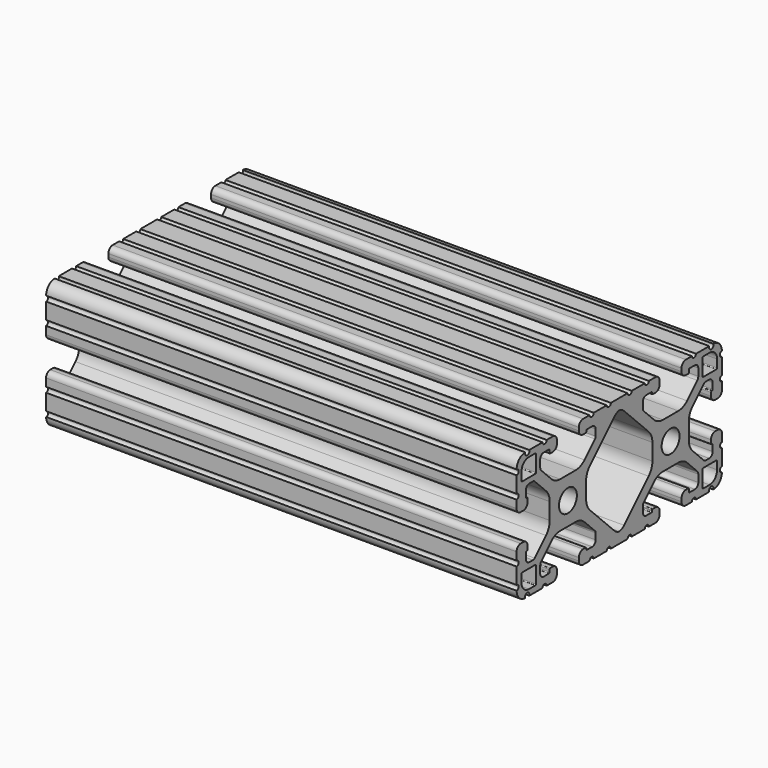
from build123d import *

# Parameters (mm, degrees)
F0_R     = 3.3274
F1_DEPTH = 69.85


with BuildPart() as f1:
    # F0 (on Right) → F1 (new body, symmetric)
    with BuildSketch(Plane.YZ):
        with BuildLine():
            Line((3.377494, 19.049045), (-2.870183, 19.049045))
            ThreePointArc((-2.870183, 19.049045), (-3.632183, 18.287045), (-4.394183, 19.049045))
            Line((-4.394183, 19.049045), (-9.220647, 19.049045))
            ThreePointArc((-9.220647, 19.049045), (-9.982647, 18.287045), (-10.744647, 19.049045))
            Line((-10.744647, 19.049045), (-13.157545, 19.049045))
            ThreePointArc((-13.157545, 19.049045), (-14.271096, 18.587797), (-14.732345, 17.474245))
            Line((-14.732345, 17.474245), (-14.732345, 16.559845))
            ThreePointArc((-14.732345, 16.559845), (-14.271096, 15.446293), (-13.157545, 14.985045))
            Line((-13.157545, 14.985045), (-12.217239, 14.985045))
            ThreePointArc((-12.217239, 14.985045), (-12.037634, 15.05944), (-11.963239, 15.239045))
            Line((-11.963239, 15.239045), (-11.963239, 15.497368))
            ThreePointArc((-11.963239, 15.497368), (-11.888844, 15.676973), (-11.709239, 15.751368))
            Line((-11.709239, 15.751368), (-9.779355, 15.751368))
            ThreePointArc((-9.779355, 15.751368), (-8.881322, 15.37939), (-8.509345, 14.481358))
            Line((-8.509345, 14.481358), (-8.509345, 12.633115))
            ThreePointArc((-8.509345, 12.633115), (-8.577016, 12.292919), (-8.769729, 12.004519))
            Line((-8.769729, 12.004519), (-12.651183, 8.123309))
            ThreePointArc((-12.651183, 8.123309), (-14.166377, 7.11094), (-15.953644, 6.755445))
            Line((-15.953644, 6.755445), (-21.686387, 6.755445))
            ThreePointArc((-21.686387, 6.755445), (-23.429916, 7.10224), (-24.908029, 8.089833))
            Line((-24.908029, 8.089833), (-28.70892, 11.890486))
            ThreePointArc((-28.70892, 11.890486), (-28.986034, 12.305196), (-29.083345, 12.794387))
            Line((-29.083345, 12.794387), (-29.083345, 14.948568))
            ThreePointArc((-29.083345, 14.948568), (-28.711367, 15.8466), (-27.813335, 16.218578))
            Line((-27.813335, 16.218578), (-25.88345, 16.218578))
            ThreePointArc((-25.88345, 16.218578), (-25.703845, 16.144183), (-25.62945, 15.964578))
            Line((-25.62945, 15.964578), (-25.62945, 15.239045))
            ThreePointArc((-25.62945, 15.239045), (-25.555055, 15.05944), (-25.37545, 14.985045))
            Line((-25.37545, 14.985045), (-24.435145, 14.985045))
            ThreePointArc((-24.435145, 14.985045), (-23.321593, 15.446293), (-22.860345, 16.559845))
            Line((-22.860345, 16.559845), (-22.860345, 17.450303))
            ThreePointArc((-22.860345, 17.450303), (-23.328605, 18.580784), (-24.459087, 19.049045))
            Line((-24.459087, 19.049045), (-26.6929, 19.049045))
            ThreePointArc((-26.6929, 19.049045), (-27.4549, 18.287045), (-28.2169, 19.049045))
            Line((-28.2169, 19.049045), (-33.146998, 19.049045))
            ThreePointArc((-33.146998, 19.049045), (-33.893051, 17.918668), (-34.639103, 19.049045))
            ThreePointArc((-34.639103, 19.049045), (-36.899911, 18.114882), (-37.822058, 15.849147))
            ThreePointArc((-37.822058, 15.849147), (-37.071515, 15.074268), (-37.846345, 14.323673))
            Line((-37.846345, 14.323673), (-37.846345, 9.495259))
            ThreePointArc((-37.846345, 9.495259), (-37.084345, 8.733259), (-37.846345, 7.971259))
            Line((-37.846345, 7.971259), (-37.846345, 5.64415))
            ThreePointArc((-37.846345, 5.64415), (-37.397376, 4.560244), (-36.31347, 4.111275))
            Line((-36.31347, 4.111275), (-35.357145, 4.111275))
            ThreePointArc((-35.357145, 4.111275), (-34.243593, 4.572524), (-33.782345, 5.686075))
            Line((-33.782345, 5.686075), (-33.782345, 6.704102))
            ThreePointArc((-33.782345, 6.704102), (-33.856739, 6.883708), (-34.036345, 6.958102))
            Line((-34.036345, 6.958102), (-34.13961, 6.958102))
            ThreePointArc((-34.13961, 6.958102), (-34.319215, 7.032497), (-34.39361, 7.212102))
            Line((-34.39361, 7.212102), (-34.39361, 9.026869))
            ThreePointArc((-34.39361, 9.026869), (-34.023362, 9.920725), (-33.129505, 10.290973))
            Line((-33.129505, 10.290973), (-31.779835, 10.290973))
            ThreePointArc((-31.779835, 10.290973), (-31.447356, 10.224841), (-31.16549, 10.036514))
            Line((-31.16549, 10.036514), (-26.944034, 5.815324))
            ThreePointArc((-26.944034, 5.815324), (-25.91433, 4.274341), (-25.552745, 2.456602))
            Line((-25.552745, 2.456602), (-25.552745, -2.458512))
            ThreePointArc((-25.552745, -2.458512), (-25.91433, -4.276251), (-26.944034, -5.817233))
            Line((-26.944034, -5.817233), (-31.16549, -10.038424))
            ThreePointArc((-31.16549, -10.038424), (-31.447356, -10.226751), (-31.779835, -10.292883))
            Line((-31.779835, -10.292883), (-33.129505, -10.292883))
            ThreePointArc((-33.129505, -10.292883), (-34.023362, -9.922635), (-34.39361, -9.028778))
            Line((-34.39361, -9.028778), (-34.39361, -7.214012))
            ThreePointArc((-34.39361, -7.214012), (-34.319215, -7.034407), (-34.13961, -6.960012))
            Line((-34.13961, -6.960012), (-34.036345, -6.960012))
            ThreePointArc((-34.036345, -6.960012), (-33.856739, -6.885617), (-33.782345, -6.706012))
            Line((-33.782345, -6.706012), (-33.782345, -5.687985))
            ThreePointArc((-33.782345, -5.687985), (-34.243593, -4.574433), (-35.357145, -4.113185))
            Line((-35.357145, -4.113185), (-36.31347, -4.113185))
            ThreePointArc((-36.31347, -4.113185), (-37.397376, -4.562154), (-37.846345, -5.64606))
            Line((-37.846345, -5.64606), (-37.846345, -7.973168))
            ThreePointArc((-37.846345, -7.973168), (-37.084345, -8.735168), (-37.846345, -9.497168))
            Line((-37.846345, -9.497168), (-37.846345, -14.325583))
            ThreePointArc((-37.846345, -14.325583), (-37.071515, -15.076178), (-37.822058, -15.851057))
            ThreePointArc((-37.822058, -15.851057), (-36.899911, -18.116792), (-34.639103, -19.050955))
            ThreePointArc((-34.639103, -19.050955), (-33.893051, -17.920577), (-33.146998, -19.050955))
            Line((-33.146998, -19.050955), (-28.2169, -19.050955))
            ThreePointArc((-28.2169, -19.050955), (-27.4549, -18.288955), (-26.6929, -19.050955))
            Line((-26.6929, -19.050955), (-24.459087, -19.050955))
            ThreePointArc((-24.459087, -19.050955), (-23.328605, -18.582694), (-22.860345, -17.452212))
            Line((-22.860345, -17.452212), (-22.860345, -16.561755))
            ThreePointArc((-22.860345, -16.561755), (-23.321593, -15.448203), (-24.435145, -14.986955))
            Line((-24.435145, -14.986955), (-25.37545, -14.986955))
            ThreePointArc((-25.37545, -14.986955), (-25.555055, -15.06135), (-25.62945, -15.240955))
            Line((-25.62945, -15.240955), (-25.62945, -15.966487))
            ThreePointArc((-25.62945, -15.966487), (-25.703845, -16.146093), (-25.88345, -16.220487))
            Line((-25.88345, -16.220487), (-27.813335, -16.220487))
            ThreePointArc((-27.813335, -16.220487), (-28.711367, -15.84851), (-29.083345, -14.950477))
            Line((-29.083345, -14.950477), (-29.083345, -12.796297))
            ThreePointArc((-29.083345, -12.796297), (-28.986034, -12.307106), (-28.70892, -11.892396))
            Line((-28.70892, -11.892396), (-24.908029, -8.091743))
            ThreePointArc((-24.908029, -8.091743), (-23.429916, -7.10415), (-21.686387, -6.757355))
            Line((-21.686387, -6.757355), (-15.953644, -6.757355))
            ThreePointArc((-15.953644, -6.757355), (-14.166377, -7.11285), (-12.651183, -8.125218))
            Line((-12.651183, -8.125218), (-8.769729, -12.006429))
            ThreePointArc((-8.769729, -12.006429), (-8.577016, -12.294829), (-8.509345, -12.635025))
            Line((-8.509345, -12.635025), (-8.509345, -14.483268))
            ThreePointArc((-8.509345, -14.483268), (-8.881322, -15.3813), (-9.779355, -15.753278))
            Line((-9.779355, -15.753278), (-11.709239, -15.753278))
            ThreePointArc((-11.709239, -15.753278), (-11.888844, -15.678883), (-11.963239, -15.499278))
            Line((-11.963239, -15.499278), (-11.963239, -15.240955))
            ThreePointArc((-11.963239, -15.240955), (-12.037634, -15.06135), (-12.217239, -14.986955))
            Line((-12.217239, -14.986955), (-13.157545, -14.986955))
            ThreePointArc((-13.157545, -14.986955), (-14.271096, -15.448203), (-14.732345, -16.561755))
            Line((-14.732345, -16.561755), (-14.732345, -17.476155))
            ThreePointArc((-14.732345, -17.476155), (-14.271096, -18.589707), (-13.157545, -19.050955))
            Line((-13.157545, -19.050955), (-10.744647, -19.050955))
            ThreePointArc((-10.744647, -19.050955), (-9.982647, -18.288955), (-9.220647, -19.050955))
            Line((-9.220647, -19.050955), (-4.394183, -19.050955))
            ThreePointArc((-4.394183, -19.050955), (-3.632183, -18.288955), (-2.870183, -19.050955))
            Line((-2.870183, -19.050955), (3.377494, -19.050955))
            ThreePointArc((3.377494, -19.050955), (4.139494, -18.288955), (4.901494, -19.050955))
            Line((4.901494, -19.050955), (9.727958, -19.050955))
            ThreePointArc((9.727958, -19.050955), (10.489958, -18.288955), (11.251958, -19.050955))
            Line((11.251958, -19.050955), (13.664855, -19.050955))
            ThreePointArc((13.664855, -19.050955), (14.778407, -18.589707), (15.239655, -17.476155))
            Line((15.239655, -17.476155), (15.239655, -16.561755))
            ThreePointArc((15.239655, -16.561755), (14.778407, -15.448203), (13.664855, -14.986955))
            Line((13.664855, -14.986955), (12.72455, -14.986955))
            ThreePointArc((12.72455, -14.986955), (12.544945, -15.06135), (12.47055, -15.240955))
            Line((12.47055, -15.240955), (12.47055, -15.499278))
            ThreePointArc((12.47055, -15.499278), (12.396155, -15.678883), (12.21655, -15.753278))
            Line((12.21655, -15.753278), (10.286665, -15.753278))
            ThreePointArc((10.286665, -15.753278), (9.388633, -15.3813), (9.016655, -14.483268))
            Line((9.016655, -14.483268), (9.016655, -12.635025))
            ThreePointArc((9.016655, -12.635025), (9.084327, -12.294829), (9.27704, -12.006429))
            Line((9.27704, -12.006429), (13.158494, -8.125218))
            ThreePointArc((13.158494, -8.125218), (14.673688, -7.11285), (16.460955, -6.757355))
            Line((16.460955, -6.757355), (22.193698, -6.757355))
            ThreePointArc((22.193698, -6.757355), (23.937227, -7.10415), (25.41534, -8.091743))
            Line((25.41534, -8.091743), (29.216231, -11.892396))
            ThreePointArc((29.216231, -11.892396), (29.493345, -12.307106), (29.590655, -12.796297))
            Line((29.590655, -12.796297), (29.590655, -14.950477))
            ThreePointArc((29.590655, -14.950477), (29.218678, -15.84851), (28.320645, -16.220487))
            Line((28.320645, -16.220487), (26.390761, -16.220487))
            ThreePointArc((26.390761, -16.220487), (26.211156, -16.146093), (26.136761, -15.966487))
            Line((26.136761, -15.966487), (26.136761, -15.240955))
            ThreePointArc((26.136761, -15.240955), (26.062366, -15.06135), (25.882761, -14.986955))
            Line((25.882761, -14.986955), (24.942455, -14.986955))
            ThreePointArc((24.942455, -14.986955), (23.828904, -15.448203), (23.367655, -16.561755))
            Line((23.367655, -16.561755), (23.367655, -17.452212))
            ThreePointArc((23.367655, -17.452212), (23.835916, -18.582694), (24.966398, -19.050955))
            Line((24.966398, -19.050955), (27.200211, -19.050955))
            ThreePointArc((27.200211, -19.050955), (27.962211, -18.288955), (28.724211, -19.050955))
            Line((28.724211, -19.050955), (33.654309, -19.050955))
            ThreePointArc((33.654309, -19.050955), (34.400361, -17.920577), (35.146414, -19.050955))
            ThreePointArc((35.146414, -19.050955), (37.407222, -18.116792), (38.329369, -15.851057))
            ThreePointArc((38.329369, -15.851057), (37.578826, -15.076178), (38.353655, -14.325583))
            Line((38.353655, -14.325583), (38.353655, -9.497168))
            ThreePointArc((38.353655, -9.497168), (37.591655, -8.735168), (38.353655, -7.973168))
            Line((38.353655, -7.973168), (38.353655, -5.64606))
            ThreePointArc((38.353655, -5.64606), (37.904687, -4.562154), (36.820781, -4.113185))
            Line((36.820781, -4.113185), (35.864455, -4.113185))
            ThreePointArc((35.864455, -4.113185), (34.750904, -4.574433), (34.289655, -5.687985))
            Line((34.289655, -5.687985), (34.289655, -6.706012))
            ThreePointArc((34.289655, -6.706012), (34.36405, -6.885617), (34.543655, -6.960012))
            Line((34.543655, -6.960012), (34.64692, -6.960012))
            ThreePointArc((34.64692, -6.960012), (34.826526, -7.034407), (34.90092, -7.214012))
            Line((34.90092, -7.214012), (34.90092, -9.028778))
            ThreePointArc((34.90092, -9.028778), (34.530673, -9.922635), (33.636816, -10.292883))
            Line((33.636816, -10.292883), (32.287146, -10.292883))
            ThreePointArc((32.287146, -10.292883), (31.954667, -10.226751), (31.672801, -10.038424))
            Line((31.672801, -10.038424), (27.451345, -5.817233))
            ThreePointArc((27.451345, -5.817233), (26.421641, -4.276251), (26.060055, -2.458512))
            Line((26.060055, -2.458512), (26.060055, 2.456602))
            ThreePointArc((26.060055, 2.456602), (26.421641, 4.274341), (27.451345, 5.815324))
            Line((27.451345, 5.815324), (31.672801, 10.036514))
            ThreePointArc((31.672801, 10.036514), (31.954667, 10.224841), (32.287146, 10.290973))
            Line((32.287146, 10.290973), (33.636816, 10.290973))
            ThreePointArc((33.636816, 10.290973), (34.530673, 9.920725), (34.90092, 9.026869))
            Line((34.90092, 9.026869), (34.90092, 7.212102))
            ThreePointArc((34.90092, 7.212102), (34.826526, 7.032497), (34.64692, 6.958102))
            Line((34.64692, 6.958102), (34.543655, 6.958102))
            ThreePointArc((34.543655, 6.958102), (34.36405, 6.883708), (34.289655, 6.704102))
            Line((34.289655, 6.704102), (34.289655, 5.686075))
            ThreePointArc((34.289655, 5.686075), (34.750904, 4.572524), (35.864455, 4.111275))
            Line((35.864455, 4.111275), (36.820781, 4.111275))
            ThreePointArc((36.820781, 4.111275), (37.904687, 4.560244), (38.353655, 5.64415))
            Line((38.353655, 5.64415), (38.353655, 7.971259))
            ThreePointArc((38.353655, 7.971259), (37.591655, 8.733259), (38.353655, 9.495259))
            Line((38.353655, 9.495259), (38.353655, 14.323673))
            ThreePointArc((38.353655, 14.323673), (37.578826, 15.074268), (38.329369, 15.849147))
            ThreePointArc((38.329369, 15.849147), (37.407222, 18.114882), (35.146414, 19.049045))
            ThreePointArc((35.146414, 19.049045), (34.400361, 17.918668), (33.654309, 19.049045))
            Line((33.654309, 19.049045), (28.724211, 19.049045))
            ThreePointArc((28.724211, 19.049045), (27.962211, 18.287045), (27.200211, 19.049045))
            Line((27.200211, 19.049045), (24.966398, 19.049045))
            ThreePointArc((24.966398, 19.049045), (23.835916, 18.580784), (23.367655, 17.450303))
            Line((23.367655, 17.450303), (23.367655, 16.559845))
            ThreePointArc((23.367655, 16.559845), (23.828904, 15.446293), (24.942455, 14.985045))
            Line((24.942455, 14.985045), (25.882761, 14.985045))
            ThreePointArc((25.882761, 14.985045), (26.062366, 15.05944), (26.136761, 15.239045))
            Line((26.136761, 15.239045), (26.136761, 15.964578))
            ThreePointArc((26.136761, 15.964578), (26.211156, 16.144183), (26.390761, 16.218578))
            Line((26.390761, 16.218578), (28.320645, 16.218578))
            ThreePointArc((28.320645, 16.218578), (29.218678, 15.8466), (29.590655, 14.948568))
            Line((29.590655, 14.948568), (29.590655, 12.794387))
            ThreePointArc((29.590655, 12.794387), (29.493345, 12.305196), (29.216231, 11.890486))
            Line((29.216231, 11.890486), (25.41534, 8.089833))
            ThreePointArc((25.41534, 8.089833), (23.937227, 7.10224), (22.193698, 6.755445))
            Line((22.193698, 6.755445), (16.460955, 6.755445))
            ThreePointArc((16.460955, 6.755445), (14.673688, 7.11094), (13.158494, 8.123309))
            Line((13.158494, 8.123309), (9.27704, 12.004519))
            ThreePointArc((9.27704, 12.004519), (9.084327, 12.292919), (9.016655, 12.633115))
            Line((9.016655, 12.633115), (9.016655, 14.481358))
            ThreePointArc((9.016655, 14.481358), (9.388633, 15.37939), (10.286665, 15.751368))
            Line((10.286665, 15.751368), (12.21655, 15.751368))
            ThreePointArc((12.21655, 15.751368), (12.396155, 15.676973), (12.47055, 15.497368))
            Line((12.47055, 15.497368), (12.47055, 15.239045))
            ThreePointArc((12.47055, 15.239045), (12.544945, 15.05944), (12.72455, 14.985045))
            Line((12.72455, 14.985045), (13.664855, 14.985045))
            ThreePointArc((13.664855, 14.985045), (14.778407, 15.446293), (15.239655, 16.559845))
            Line((15.239655, 16.559845), (15.239655, 17.474245))
            ThreePointArc((15.239655, 17.474245), (14.778407, 18.587797), (13.664855, 19.049045))
            Line((13.664855, 19.049045), (11.251958, 19.049045))
            ThreePointArc((11.251958, 19.049045), (10.489958, 18.287045), (9.727958, 19.049045))
            Line((9.727958, 19.049045), (4.901494, 19.049045))
            ThreePointArc((4.901494, 19.049045), (4.139494, 18.287045), (3.377494, 19.049045))
        make_face()
        with BuildLine():
            Line((-30.66312, -12.142129), (-30.66312, -17.018955))
            ThreePointArc((-30.66312, -17.018955), (-30.737515, -17.19856), (-30.91712, -17.272955))
            Line((-30.91712, -17.272955), (-33.253923, -17.272955))
            ThreePointArc((-33.253923, -17.272955), (-35.229579, -16.454611), (-36.047923, -14.478955))
            Line((-36.047923, -14.478955), (-36.047923, -12.142129))
            ThreePointArc((-36.047923, -12.142129), (-35.973528, -11.962524), (-35.793923, -11.888129))
            Line((-35.793923, -11.888129), (-30.91712, -11.888129))
            ThreePointArc((-30.91712, -11.888129), (-30.737515, -11.962524), (-30.66312, -12.142129))
        make_face(mode=Mode.SUBTRACT)
        with BuildLine():
            Line((36.555234, -12.142129), (36.555234, -14.478955))
            ThreePointArc((36.555234, -14.478955), (35.73689, -16.454611), (33.761234, -17.272955))
            Line((33.761234, -17.272955), (31.424431, -17.272955))
            ThreePointArc((31.424431, -17.272955), (31.244826, -17.19856), (31.170431, -17.018955))
            Line((31.170431, -17.018955), (31.170431, -12.142129))
            ThreePointArc((31.170431, -12.142129), (31.244826, -11.962524), (31.424431, -11.888129))
            Line((31.424431, -11.888129), (36.301234, -11.888129))
            ThreePointArc((36.301234, -11.888129), (36.480839, -11.962524), (36.555234, -12.142129))
        make_face(mode=Mode.SUBTRACT)
        with Locations((-18.796345, -0.000955)):
            Circle(F0_R, mode=Mode.SUBTRACT)
        with BuildLine():
            Line((-30.66312, 17.017045), (-30.66312, 12.14022))
            ThreePointArc((-30.66312, 12.14022), (-30.737515, 11.960615), (-30.91712, 11.88622))
            Line((-30.91712, 11.88622), (-35.793923, 11.88622))
            ThreePointArc((-35.793923, 11.88622), (-35.973528, 11.960615), (-36.047923, 12.14022))
            Line((-36.047923, 12.14022), (-36.047923, 14.477045))
            ThreePointArc((-36.047923, 14.477045), (-35.229579, 16.452701), (-33.253923, 17.271045))
            Line((-33.253923, 17.271045), (-30.91712, 17.271045))
            ThreePointArc((-30.91712, 17.271045), (-30.737515, 17.19665), (-30.66312, 17.017045))
        make_face(mode=Mode.SUBTRACT)
        with BuildLine():
            ThreePointArc((2.034902, -14.937725), (1.216223, -15.53162), (0.253655, -15.842122))
            ThreePointArc((0.253655, -15.842122), (-0.708912, -15.53162), (-1.527591, -14.937725))
            Line((-1.527591, -14.937725), (-10.648655, -5.817233))
            ThreePointArc((-10.648655, -5.817233), (-11.678359, -4.276251), (-12.039945, -2.458512))
            Line((-12.039945, -2.458512), (-12.039945, 2.456602))
            ThreePointArc((-12.039945, 2.456602), (-11.678359, 4.274341), (-10.648655, 5.815324))
            Line((-10.648655, 5.815324), (-1.527591, 14.935815))
            ThreePointArc((-1.527591, 14.935815), (-0.708912, 15.52971), (0.253655, 15.840213))
            ThreePointArc((0.253655, 15.840213), (1.216223, 15.52971), (2.034902, 14.935815))
            Line((2.034902, 14.935815), (11.155966, 5.815324))
            ThreePointArc((11.155966, 5.815324), (12.18567, 4.274341), (12.547255, 2.456602))
            Line((12.547255, 2.456602), (12.547255, -2.458512))
            ThreePointArc((12.547255, -2.458512), (12.18567, -4.276251), (11.155966, -5.817233))
            Line((11.155966, -5.817233), (2.034902, -14.937725))
        make_face(mode=Mode.SUBTRACT)
        with Locations((19.303655, -0.000955)):
            Circle(F0_R, mode=Mode.SUBTRACT)
        with BuildLine():
            Line((36.301234, 11.88622), (31.424431, 11.88622))
            ThreePointArc((31.424431, 11.88622), (31.244826, 11.960615), (31.170431, 12.14022))
            Line((31.170431, 12.14022), (31.170431, 17.017045))
            ThreePointArc((31.170431, 17.017045), (31.244826, 17.19665), (31.424431, 17.271045))
            Line((31.424431, 17.271045), (33.761234, 17.271045))
            ThreePointArc((33.761234, 17.271045), (35.73689, 16.452701), (36.555234, 14.477045))
            Line((36.555234, 14.477045), (36.555234, 12.14022))
            ThreePointArc((36.555234, 12.14022), (36.480839, 11.960615), (36.301234, 11.88622))
        make_face(mode=Mode.SUBTRACT)
    extrude(amount=F1_DEPTH, both=True)


solid = f1.part
